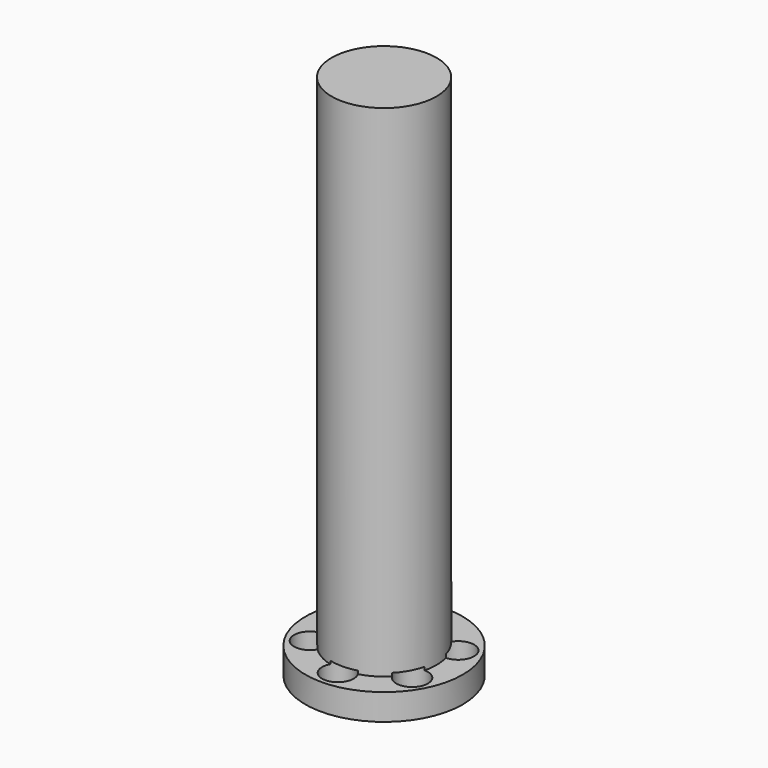
from build123d import *

# Parameters (mm, degrees)
F0_R     = 12.7
F1_DEPTH = 127.508
F2_R     = 19.05
F3_DEPTH = 6.35
F4_R     = 3.822156
F5_DEPTH = 7.112


with BuildPart() as f1:
    # F0 (on Top) → F1 (new body)
    with BuildSketch(Plane.XY):
        Circle(F0_R)
    extrude(amount=F1_DEPTH)

    # F2 (on Top) → F3 (join)
    with BuildSketch(Plane.XY):
        Circle(F2_R)
    extrude(amount=F3_DEPTH)

    # F4 (on Top) → F5 (cut)
    with BuildSketch(Plane.XY):
        with Locations((12.194332, 7.214257)):
            Circle(F4_R)
        with Locations((-0.150564, 14.16773)):
            Circle(F4_R)
        with Locations((-12.344896, 6.953473)):
            Circle(F4_R)
        with Locations((-12.194332, -7.214257)):
            Circle(F4_R)
        with Locations((0.150564, -14.16773)):
            Circle(F4_R)
        with Locations((12.344896, -6.953473)):
            Circle(F4_R)
    extrude(amount=F5_DEPTH, mode=Mode.SUBTRACT)


solid = f1.part
